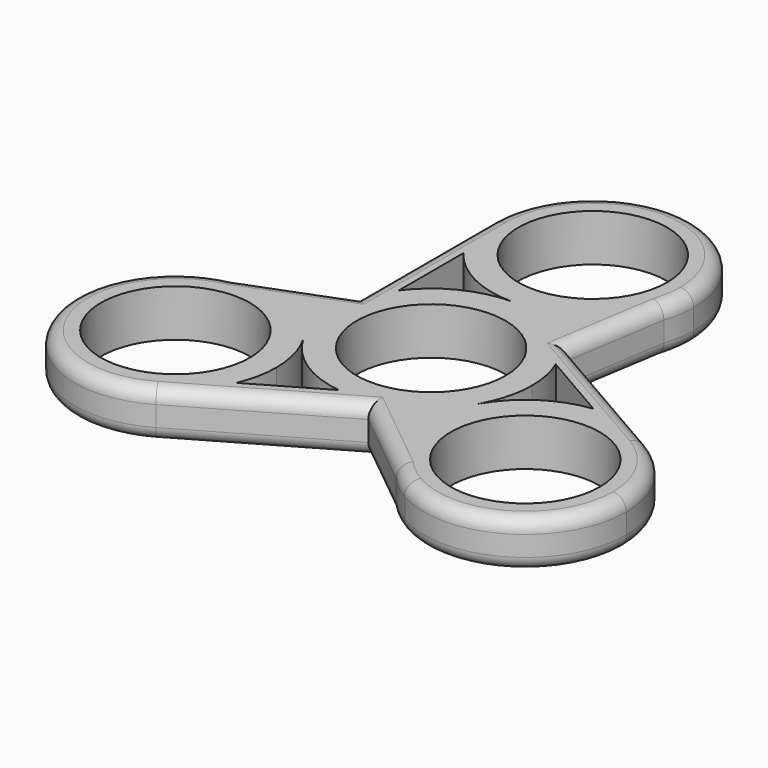
from build123d import *

# Parameters (mm, degrees)
F0_R     = 11.05
F1_DEPTH = 7
F2_R     = 2


with BuildPart() as f1:
    # F0 (on Top) → F1 (new body)
    with BuildSketch(Plane.XY):
        with BuildLine():
            ThreePointArc((7.5, 12.9903810568), (11.2230439167, 9.9520492987), (13.7942286341, 5.8923048454))
            Line((13.7942286341, 5.8923048454), (24.1865334795, -0.1076951546))
            ThreePointArc((24.1865334795, -0.1076951546), (28.9879676676, -0.304534211), (33.4807621135, -2.0096189432))
            Line((33.4807621135, -2.0096189432), (11.903289687, 10.4481405707))
            Line((11.903289687, 10.4481405707), (7.5, 12.9903810568))
        make_face()
        with BuildLine():
            ThreePointArc((14.8335897314, -25.0369590954), (11.0629336807, -16.5679269269), (12.990381079, -7.4999999614))
            ThreePointArc((12.990381079, -7.4999999614), (10.6066017336, -10.606601702), (7.5, -12.9903810568))
            Line((7.5, -12.9903810568), (3.096710313, -15.5326215429))
            Line((3.096710313, -15.5326215429), (14.8335897314, -25.0369590954))
        make_face()
        with BuildLine():
            ThreePointArc((24.1865334795, -0.1076951546), (17.7159140598, -2.4823210359), (12.990381079, -7.4999999614))
            ThreePointArc((12.990381079, -7.4999999614), (11.0629336807, -16.5679269269), (14.8335897314, -25.0369590954))
            Line((14.8335897314, -25.0369590954), (18.4807621135, -27.9903810568))
            ThreePointArc((18.4807621135, -27.9903810568), (33.4807621135, -27.9903810568), (40.9807621135, -15))
            ThreePointArc((40.9807621135, -15), (38.9711431703, -7.5), (33.4807621135, -2.0096189432))
            ThreePointArc((33.4807621135, -2.0096189432), (28.9879676676, -0.304534211), (24.1865334795, -0.1076951546))
        make_face()
        with Locations((25.9807621135, -15)):
            Circle(F0_R, mode=Mode.SUBTRACT)
        with BuildLine():
            ThreePointArc((0, 15), (3.8822856765, 14.4888873943), (7.5, 12.9903810568))
            Line((7.5, 12.9903810568), (11.903289687, 10.4481405707))
            Line((11.903289687, 10.4481405707), (14.2658477444, 25.3647450844))
            ThreePointArc((14.2658477444, 25.3647450844), (8.8167787844, 17.8647450844), (0, 15))
        make_face()
        with BuildLine():
            Line((3.096710313, -15.5326215429), (7.5, -12.9903810568))
            ThreePointArc((7.5, -12.9903810568), (3.0072055541, -14.695465789), (-1.7942286341, -14.8923048454))
            Line((-1.7942286341, -14.8923048454), (-12.1865334795, -20.8923048454))
            ThreePointArc((-12.1865334795, -20.8923048454), (-14.7577181969, -24.9520492987), (-18.4807621135, -27.9903810568))
            Line((-18.4807621135, -27.9903810568), (3.096710313, -15.5326215429))
        make_face()
        with BuildLine():
            Line((18.4807621135, -27.9903810568), (14.8335897314, -25.0369590954))
            ThreePointArc((14.8335897314, -25.0369590954), (16.5409562478, -26.6571894219), (18.4807621135, -27.9903810568))
        make_face()
        with BuildLine():
            ThreePointArc((-12, 21), (-6.7082039325, 16.583592135), (0, 15))
            ThreePointArc((0, 15), (8.8167787844, 17.8647450844), (14.2658477444, 25.3647450844))
            Line((14.2658477444, 25.3647450844), (15, 30))
            ThreePointArc((15, 30), (0, 45), (-15, 30))
            ThreePointArc((-15, 30), (-14.2302494708, 25.2565835097), (-12, 21))
        make_face()
        with Locations((0, 30)):
            Circle(F0_R, mode=Mode.SUBTRACT)
        with BuildLine():
            ThreePointArc((-15, 0), (-14.2302494708, 4.7434164903), (-12, 9))
            Line((-12, 9), (-12, 21))
            ThreePointArc((-12, 21), (-14.2302494708, 25.2565835097), (-15, 30))
            Line((-15, 30), (-15, 5.0844809722))
            Line((-15, 5.0844809722), (-15, 0))
        make_face()
        with BuildLine():
            Line((15, 30), (14.2658477444, 25.3647450844))
            ThreePointArc((14.2658477444, 25.3647450844), (14.8153251089, 27.6534830244), (15, 30))
        make_face()
        with BuildLine():
            ThreePointArc((-29.0994374758, -0.327785989), (-19.8797124097, -1.2968181611), (-12.9903809936, -7.5000001095))
            ThreePointArc((-12.9903809936, -7.5000001095), (-14.488887378, -3.8822857376), (-15, 0))
            Line((-15, 0), (-15, 5.0844809722))
            Line((-15, 5.0844809722), (-29.0994374758, -0.327785989))
        make_face()
        with BuildLine():
            ThreePointArc((-10.9807621135, -15), (-11.4918747028, -11.1177143845), (-12.9903809936, -7.5000001095))
            ThreePointArc((-12.9903809936, -7.5000001095), (-19.8797124097, -1.2968181611), (-29.0994374758, -0.327785989))
            Line((-29.0994374758, -0.327785989), (-33.4807621135, -2.0096189432))
            ThreePointArc((-33.4807621135, -2.0096189432), (-38.9711431703, -22.5), (-18.4807621135, -27.9903810568))
            ThreePointArc((-18.4807621135, -27.9903810568), (-14.7577181969, -24.9520492987), (-12.1865334795, -20.8923048454))
            ThreePointArc((-12.1865334795, -20.8923048454), (-11.2852963245, -18.0072055541), (-10.9807621135, -15))
        make_face()
        with Locations((-25.9807621135, -15)):
            Circle(F0_R, mode=Mode.SUBTRACT)
        with BuildLine():
            Line((-33.4807621135, -2.0096189432), (-29.0994374758, -0.327785989))
            ThreePointArc((-29.0994374758, -0.327785989), (-31.3562813567, -0.9962936025), (-33.4807621135, -2.0096189432))
        make_face()
        with BuildLine():
            ThreePointArc((12.990381079, -7.4999999614), (14.4888874001, -3.882285655), (15, 0))
            ThreePointArc((15, 0), (14.695465789, 3.0072055541), (13.7942286341, 5.8923048454))
            ThreePointArc((13.7942286341, 5.8923048454), (11.2230439167, 9.9520492987), (7.5, 12.9903810568))
            ThreePointArc((7.5, 12.9903810568), (3.8822856765, 14.4888873943), (0, 15))
            ThreePointArc((0, 15), (-6.7082039325, 13.416407865), (-12, 9))
            ThreePointArc((-12, 9), (-14.2302494708, 4.7434164903), (-15, 0))
            ThreePointArc((-15, 0), (-14.488887378, -3.8822857376), (-12.9903809936, -7.5000001095))
            ThreePointArc((-12.9903809936, -7.5000001095), (-8.2648480196, -12.5176789866), (-1.7942286341, -14.8923048454))
            ThreePointArc((-1.7942286341, -14.8923048454), (3.0072055541, -14.695465789), (7.5, -12.9903810568))
            ThreePointArc((7.5, -12.9903810568), (10.6066017336, -10.606601702), (12.990381079, -7.4999999614))
        make_face()
        Circle(F0_R, mode=Mode.SUBTRACT)
    extrude(amount=F1_DEPTH)

    # F2
    f2_edges = [f1.edges().sort_by_distance(p)[0] for p in [
        (22.692026, 4.219261, 0),
        (37.637952, -24.439806, 0),
        (8.96515, -20.28479, 0),
        (-7.692026, -21.761501, 0),
        (-22.049719, 2.378347, 0),
        (-15, 17.54224, 0),
        (13.084569, 17.906443, 0),
        (-15, 17.54224, 7),
        (-22.049719, 2.378347, 7),
        (-7.692026, -21.761501, 7),
        (8.96515, -20.28479, 7),
        (22.692026, 4.219261, 7),
        (13.084569, 17.906443, 7),
    ]]
    fillet(f2_edges, radius=F2_R)


solid = f1.part
